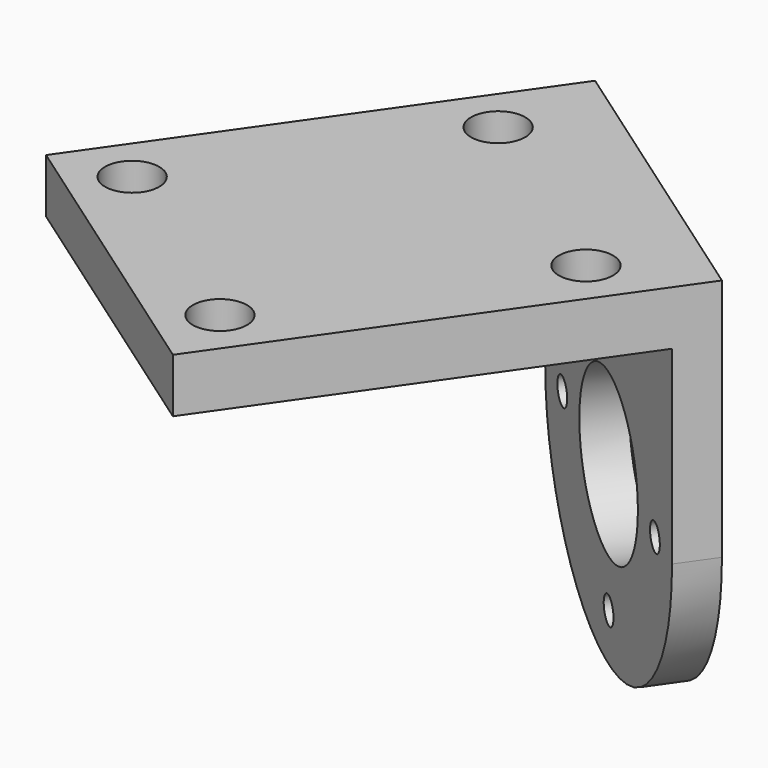
from build123d import *

# Parameters (mm, degrees)
SKETCH088_R             = 6
PAD064_DEPTH            = 3
SKETCH089_W             = 26
SKETCH089_H             = 4
PAD065_DEPTH            = 30
SKETCH090_R             = 2
POCKET032_DEPTH         = 31.001
SKETCH091_R             = 1
POCKET033_DEPTH         = 137.42322
POLARPATTERN013_COUNT   = 4
BODY039_PLACEMENT_ANGLE = 35


with BuildPart() as part:
    # Sketch088 → Pad064 (new body)
    with BuildSketch(Plane.XZ):
        with BuildLine():
            Line((-13, 18), (13, 18))
            Line((13, 18), (13, 0))
            ThreePointArc((-13, 0), (0, -13), (13, 0))
            Line((-13, 18), (-13, 0))
        make_face()
        Circle(SKETCH088_R, mode=Mode.SUBTRACT)
    extrude(amount=PAD064_DEPTH)

    # Sketch089 (on Face7 of Pad064) → Pad065 (join)
    with BuildSketch(Plane.XZ.offset(3)):
        with Locations((0, 16)):
            Rectangle(SKETCH089_W, SKETCH089_H)
    extrude(amount=PAD065_DEPTH)

    # Sketch090 (on Face5 of Pad065) → Pocket032 (cut, through all)
    with BuildSketch(Plane(origin=(0, 0, 18), x_dir=(-1, 0, 0), z_dir=(0, 0, 1))):
        with Locations((-9, 7)):
            Circle(SKETCH090_R)
        with Locations((9, 7)):
            Circle(SKETCH090_R)
        with Locations((-9, 29)):
            Circle(SKETCH090_R)
        with Locations((9, 29)):
            Circle(SKETCH090_R)
    extrude(amount=-POCKET032_DEPTH, mode=Mode.SUBTRACT)

    # Sketch091 (on Face4 of Pocket032) → Pocket033 (cut, through all)
    with BuildSketch(Plane(origin=(0, 0, 0), x_dir=(1, 0, 0), z_dir=(0, 1, 0))):
        with Locations((0, 9.5)):
            Circle(SKETCH091_R)
    pocket033 = extrude(amount=-POCKET033_DEPTH, mode=Mode.SUBTRACT)

    # PolarPattern013: Pocket033 ×4 about axis
    polarpattern013_axis = Axis((0, 0, 0), (0, 1, 0))
    for i in range(1, POLARPATTERN013_COUNT):
        add(pocket033.rotate(polarpattern013_axis, i * 360 / POLARPATTERN013_COUNT), mode=Mode.SUBTRACT)


with BuildPart() as part_1:
    # Body039 placement: moved
    add(part.part.moved(Location((43.591809, 62.255555, -8))).rotate(Axis((43.591809, 62.255555, -8), (0, 0, -1)), BODY039_PLACEMENT_ANGLE))


solid = part_1.part
